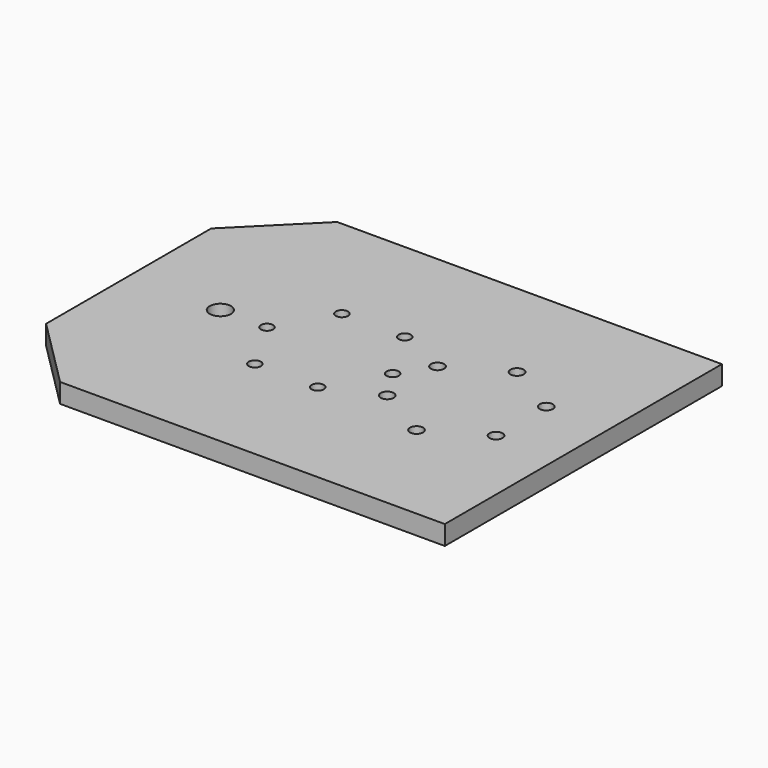
from build123d import *

# Parameters (mm, degrees)
F1_DEPTH       = 6.35
F2_D           = 7
F2_CSINK_D     = 10
F2_CSINK_ANGLE = 82
F3_D           = 4.3
F3_CSINK_D     = 7.75
F3_CSINK_ANGLE = 90
F4_D           = 4


with BuildPart() as f1:
    # F0 (on Top) → F1 (new body)
    with BuildSketch(Plane.XY):
        Polygon((-149.4, 23), (-126.4, 0), (0, 0), (0, 113.8), (-126.4, 113.8), (-149.4, 90.8), align=None)
    extrude(amount=F1_DEPTH)

    # F2 (through all)
    with Locations(Plane(origin=(0, 0, 0), x_dir=(1, 0, 0), z_dir=(0, 0, -1))):
        with Locations((-119.26, -56.9)):
            CounterSinkHole(F2_D / 2, F2_CSINK_D / 2, counter_sink_angle=F2_CSINK_ANGLE)

    # F3 (through all)
    with Locations(Plane(origin=(0, 0, 0), x_dir=(1, 0, 0), z_dir=(0, 0, -1))):
        with Locations((-38.3, -36.26), (-20.4252356659, -46.58), (-20.4252356659, -67.22), (-38.3, -77.54), (-56.1747643341, -67.22), (-56.1747643341, -46.58)):
            CounterSinkHole(F3_D / 2, F3_CSINK_D / 2, counter_sink_angle=F3_CSINK_ANGLE)

    # F4 (through all)
    with Locations(Plane(origin=(0, 0, 0), x_dir=(1, 0, 0), z_dir=(0, 0, -1))):
        with Locations((-103.94, -56.9), (-93.62, -39.0252356659), (-72.98, -39.0252356659), (-62.66, -56.9), (-72.98, -74.7747643341), (-93.62, -74.7747643341)):
            Hole(F4_D / 2)


solid = f1.part
